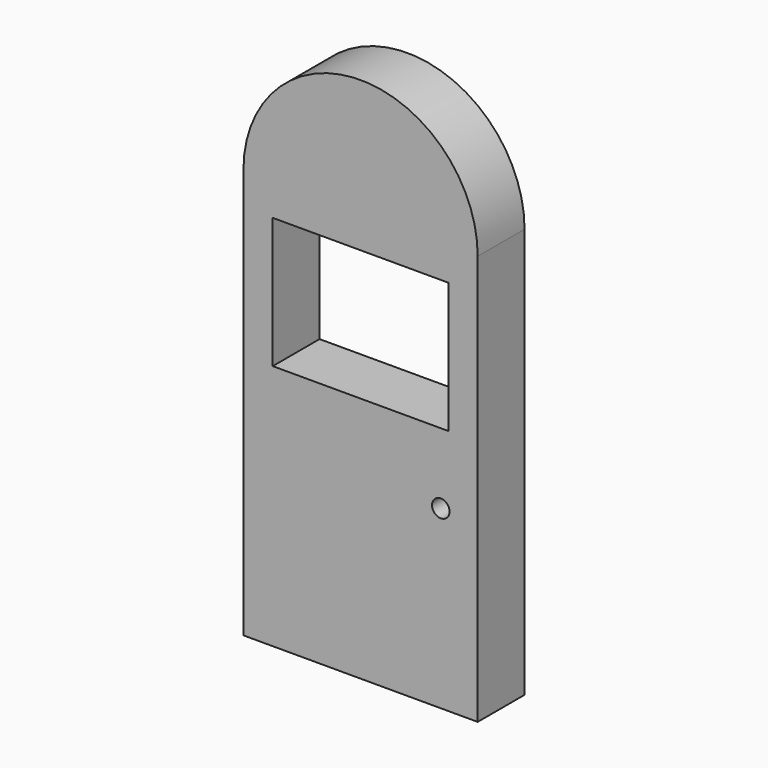
from build123d import *

# Parameters (mm, degrees)
F0_W     = 10.16
F0_H     = 17.78
F0_R     = 0.381
F1_DEPTH = 1.27


with BuildPart() as f1:
    # F0 (on Front) → F1 (new body, symmetric)
    with BuildSketch(Plane.XZ):
        with Locations((-5.08, 8.89)):
            Rectangle(F0_W, F0_H)
        with Locations((-1.60185, 7.633115)):
            Circle(F0_R, mode=Mode.SUBTRACT)
        Polygon((-8.89, 13.524802), (-8.89, 16.355868), (-5.08, 16.355868), (-1.27, 16.355868), (-1.27, 13.524802), (-1.27, 10.693735), (-5.08, 10.693735), (-8.89, 10.693735), align=None, mode=Mode.SUBTRACT)
        with BuildLine():
            Line((-10.16, 17.78), (0, 17.78))
            ThreePointArc((0, 17.78), (-5.08, 22.86), (-10.16, 17.78))
        make_face()
    extrude(amount=F1_DEPTH, both=True)


solid = f1.part
